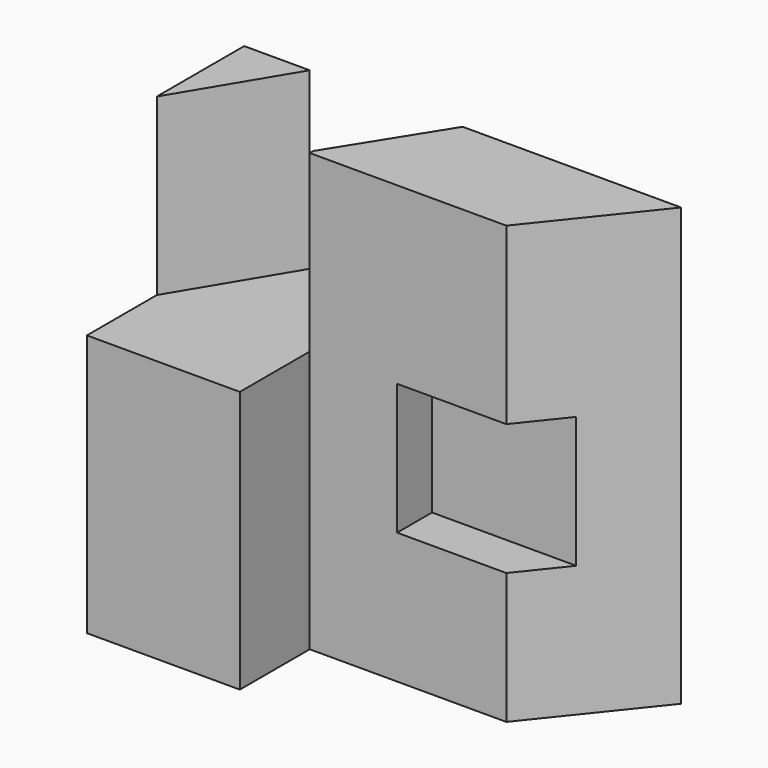
from build123d import *

# Parameters (mm, degrees)
F1_DEPTH = 100
F3_DEPTH = 40
F6_DEPTH = 85
F7_W     = 39.07055
F7_H     = 30
F8_DEPTH = 10


with BuildPart() as f1:
    # F0 (on Top) → F1 (new body)
    with BuildSketch(Plane.XY):
        Polygon((0, 45), (0, 0), (35, 0), (35, 20), (80, 20), (100, 45), align=None)
    extrude(amount=F1_DEPTH)

    # F2 (on face) → F3 (cut)
    with BuildSketch(Plane.XY.offset(100)):
        Polygon((0, 0), (35, 0), (35, 45), (15, 45), (0, 20), align=None)
    extrude(amount=-F3_DEPTH, mode=Mode.SUBTRACT)

    # F5 (on face) → F6 (cut, through all)
    with BuildSketch(Plane.XY.offset(100)):
        Polygon((50, 45), (35, 45), (35, 21), align=None)
    extrude(amount=-F6_DEPTH, mode=Mode.SUBTRACT)

    # F7 (on face) → F8 (cut)
    with BuildSketch(Plane.XZ.offset(-20)):
        with Locations((74.535275, 45)):
            Rectangle(F7_W, F7_H)
    extrude(amount=-F8_DEPTH, mode=Mode.SUBTRACT)


solid = f1.part
